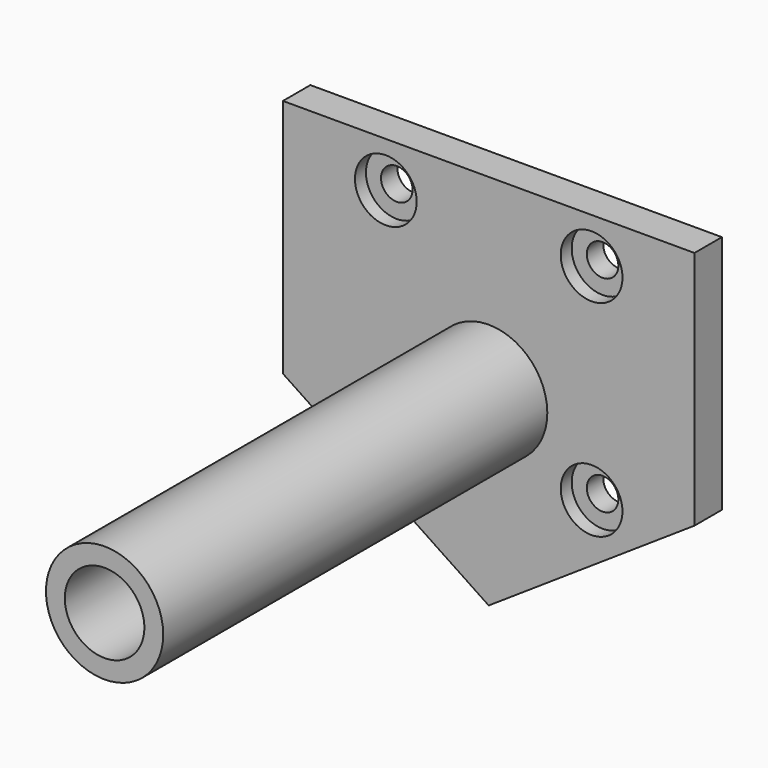
from build123d import *

# Parameters (mm, degrees)
F0_R     = 10.85215
F1_DEPTH = 88.9
F3_D     = 14.732
F5_DEPTH = 6.35
F7_D     = 5.842
F8_R     = 5.715
F9_DEPTH = 2.54


with BuildPart() as f1:
    # F0 (on Front) → F1 (new body)
    with BuildSketch(Plane.XZ):
        Circle(F0_R)
    extrude(amount=F1_DEPTH)

    # F3 (through all)
    with Locations(Plane.XZ.offset(88.9)):
        with Locations((0, 0)):
            Hole(F3_D / 2)

    # F4 (on Front) → F5 (join)
    with BuildSketch(Plane.XZ):
        Polygon((0, 0), (0, 34.925), (-38.1, 34.925), (-38.1, -9.525), (0, -34.925), align=None)
        Polygon((38.1, 34.925), (0, 34.925), (0, 0), (0, -34.925), (38.1, -9.525), align=None)
    extrude(amount=-F5_DEPTH)

    # F7 (through all)
    with Locations(Plane(origin=(0, 6.35, 0), x_dir=(-1, 0, 0), z_dir=(0, 1, 0))):
        with Locations((-19.05, 26.55945), (19.05, 26.55945), (19.05, -11.54055), (-19.05, -11.54055)):
            Hole(F7_D / 2)

    # F8 (on face) → F9 (cut)
    with BuildSketch(Plane.XZ):
        with Locations((-19.05, 26.55945)):
            Circle(F8_R)
        with Locations((19.05, 26.55945)):
            Circle(F8_R)
        with Locations((-19.05, -11.54055)):
            Circle(F8_R)
        with Locations((19.05, -11.54055)):
            Circle(F8_R)
    extrude(amount=-F9_DEPTH, mode=Mode.SUBTRACT)


solid = f1.part
